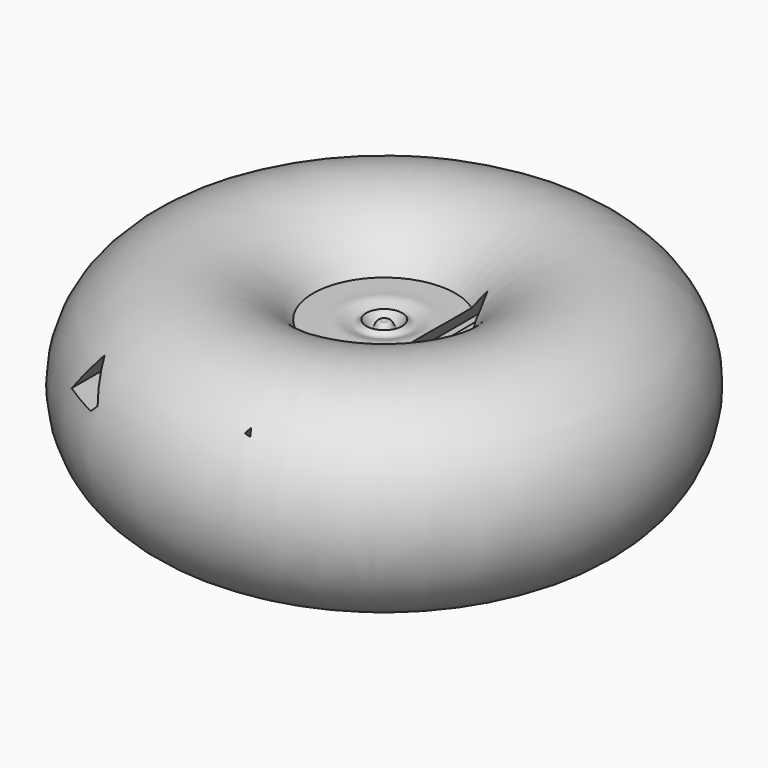
from build123d import *

# Parameters (mm, degrees)
F3_DEPTH = 63.5


with BuildPart() as f1:
    # F0 (on Front) → F1 (revolve)
    with BuildSketch(Plane.XZ):
        with BuildLine():
            add(Edge.make_bspline(
                [(4.8452601768, 40.414724499), (4.0611946966, 39.1497302321), (2.6224707733, 36.8285242095), (1.8482354128, 40.5220548027), (0.5823654009, 40.1157856495), (0, 39.9288809152)],
                knots=[0, 0, 0, 0, 0.3927177248, 0.7206188769, 1, 1, 1, 1], degree=3))
            Line((0, 39.9288809152), (0, 0))
            Line((0, 0), (29.8339352012, 0))
            ThreePointArc((29.8339352012, 0), (70.5806518522, 32.2415738739), (19.2677527666, 40.414724499))
            add(Edge.make_bspline(
                [(19.2677527666, 40.414724499), (16.6917193511, 40.3497173565), (12.4982856904, 40.243894529), (9.8644110288, 40.8347784084), (6.3481366527, 38.780003105), (5.2919190972, 39.9288809152), (4.8452601768, 40.414724499)],
                knots=[0, 0, 0, 0, 0.3493234668, 0.568651313, 0.8175889637, 1, 1, 1, 1], degree=3))
        make_face()
    revolve(axis=Axis((0, 0, -3.1610317528), (0, 0, -1)))

    # F2 (on Front) → F3 (cut, symmetric)
    with BuildSketch(Plane.XZ):
        Polygon((-25.7792528719, 35.053499043), (-31.123733148, 44.4849319756), (-38.0401164293, 35.3678762913), align=None)
        with BuildLine():
            Line((-15.5415097252, 13.5268708691), (17.8439561278, 14.1024822369))
            ThreePointArc((17.8439561278, 14.1024822369), (1.0087540795, 22.0778872315), (-15.5415097252, 13.5268708691))
        make_face()
        Polygon((13.814676553, 44.4849319756), (7.4829510413, 35.053499043), (18.1317608804, 35.053499043), align=None)
    extrude(amount=F3_DEPTH, both=True, mode=Mode.SUBTRACT)


solid = f1.part
